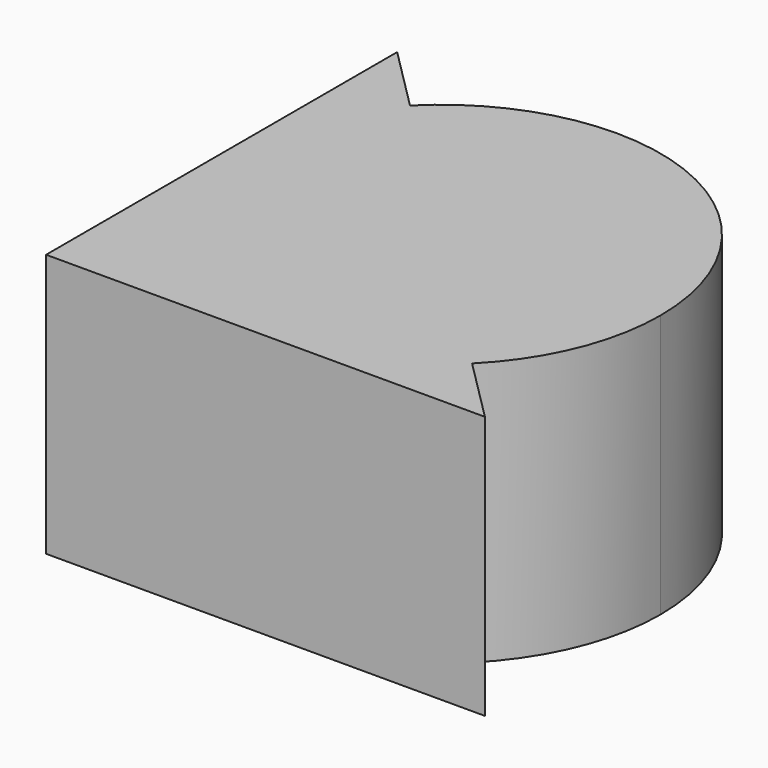
from build123d import *

# Parameters (mm, degrees)
F0_W     = 100
F0_H     = 100
F1_DEPTH = 60
F4_DEPTH = 60.001


with BuildPart() as f1:
    # F0 (on Top) → F1 (new body)
    with BuildSketch(Plane.XY):
        with Locations((50, 50)):
            Rectangle(F0_W, F0_H)
    extrude(amount=F1_DEPTH)

    # F3 (on face) → F4 (cut, through all)
    with BuildSketch(Plane.XY.offset(60)):
        with BuildLine():
            ThreePointArc((50, 100), (85.3553390593, 85.3553390593), (100, 50))
            Line((100, 50), (100, 100))
            Line((100, 100), (50, 100))
        make_face()
        with BuildLine():
            Line((100, 0), (100, 50))
            ThreePointArc((100, 50), (96.1939766256, 30.8658283817), (85.3553390593, 14.6446609407))
            Line((85.3553390593, 14.6446609407), (100, 0))
        make_face()
        with BuildLine():
            ThreePointArc((14.6446609407, 85.3553390593), (30.8658283817, 96.1939766256), (50, 100))
            Line((50, 100), (0, 100))
            Line((0, 100), (14.6446609407, 85.3553390593))
        make_face()
    extrude(amount=-F4_DEPTH, mode=Mode.SUBTRACT)


solid = f1.part
